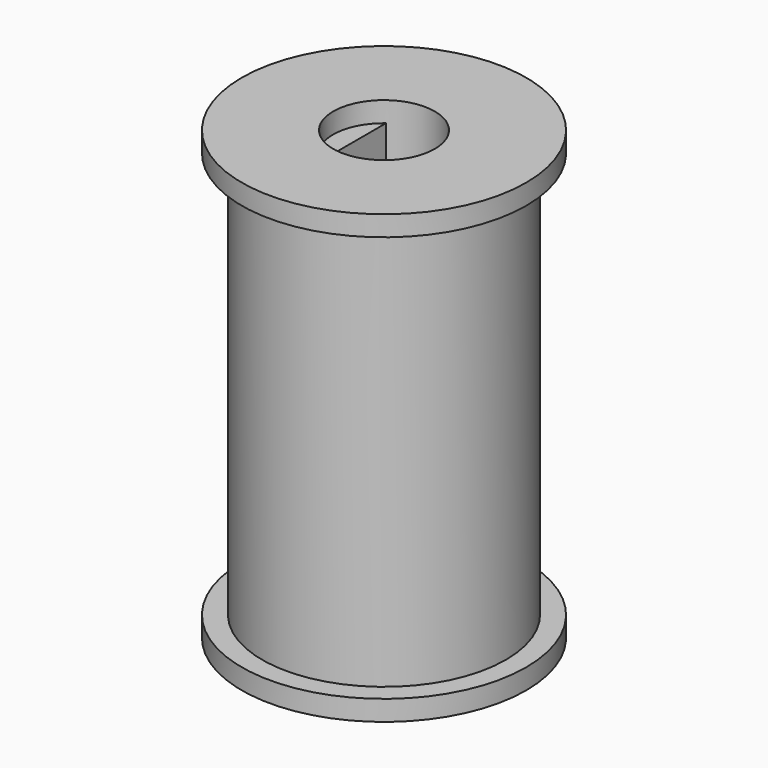
from build123d import *

# Parameters (mm, degrees)
SKETCH_R      = 6
SKETCH_R_2    = 2.5
PAD_DEPTH     = 20.5
SKETCH001_W   = 5.557975
SKETCH001_H   = 5.932069
SKETCH001_W_2 = 3
SKETCH001_H_2 = 5
PAD001_DEPTH  = 20.5
SKETCH003_R   = 7
SKETCH003_R_2 = 2.5
PAD002_DEPTH  = 1
SKETCH004_R   = 7
SKETCH004_R_2 = 2.5
PAD003_DEPTH  = 0.5


with BuildPart() as part:
    # Sketch → Pad (new body)
    with BuildSketch(Plane.XY):
        Circle(SKETCH_R)
        Circle(SKETCH_R_2, mode=Mode.SUBTRACT)
    extrude(amount=PAD_DEPTH)

    # Sketch001 → Pad001 (join)
    with BuildSketch(Plane.XY):
        with Locations((0.008437, -0.106321)):
            Rectangle(SKETCH001_W, SKETCH001_H)
        Rectangle(SKETCH001_W_2, SKETCH001_H_2, mode=Mode.SUBTRACT)
    extrude(amount=PAD001_DEPTH)

    # Sketch003 (on Face5 of Pad001) → Pad002 (join)
    with BuildSketch(Plane.XY.offset(20.5)):
        Circle(SKETCH003_R)
        Circle(SKETCH003_R_2, mode=Mode.SUBTRACT)
    extrude(amount=PAD002_DEPTH)

    # Sketch004 → Pad003 (join, symmetric)
    with BuildSketch(Plane.XY):
        Circle(SKETCH004_R)
        Circle(SKETCH004_R_2, mode=Mode.SUBTRACT)
    extrude(amount=PAD003_DEPTH, both=True)


solid = part.part
